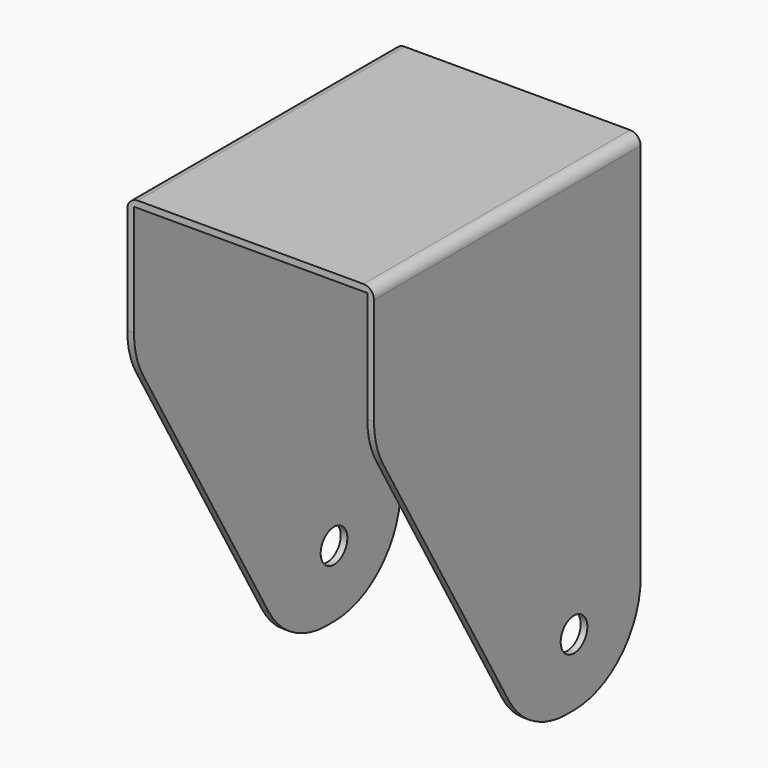
from build123d import *

# Parameters (mm, degrees)
F1_DEPTH = 100
F2_SIZE2 = 115.4700538379
F2_SIZE  = 200
F3_R     = 50
F4_R     = 10
F5_DEPTH = 100


with BuildPart() as f1:
    # F0 (on Front) → F1 (new body, symmetric)
    with BuildSketch(Plane.XZ):
        with BuildLine():
            Line((-72, 277.65), (-72, 0))
            Line((-72, 0), (-68, 0))
            Line((-68, 0), (-68, 280))
            Line((-68, 280), (72, 280))
            Line((72, 280), (72, 0))
            Line((72, 0), (76, 0))
            Line((76, 0), (76, 277.65))
            ThreePointArc((76, 277.65), (74.1401280605, 282.1401280605), (69.65, 284))
            Line((69.65, 284), (-65.65, 284))
            ThreePointArc((-65.65, 284), (-70.1401280605, 282.1401280605), (-72, 277.65))
        make_face()
    extrude(amount=F1_DEPTH, both=True)

    # F2
    f2_edges = [f1.edges().sort_by_distance(p)[0] for p in [
        (74, -100, 0),
        (-70, -100, 0),
    ]]
    f2_side = f1.faces().sort_by_distance((-68.797501, -100, 138.825))[0]
    chamfer(f2_edges, length=F2_SIZE, length2=F2_SIZE2, reference=f2_side)

    # F3
    f3_edges = [f1.edges().sort_by_distance(p)[0] for p in [
        (74, -100, 200),
        (-70, -100, 200),
        (74, 15.470054, 0),
        (-70, 15.470054, 0),
        (-70, 100, 0),
        (74, 100, 0),
    ]]
    fillet(f3_edges, radius=F3_R)

    # F4 (on Right) → F5 (cut, symmetric)
    with BuildSketch(Plane.YZ):
        with Locations((50, 40)):
            Circle(F4_R)
    extrude(amount=F5_DEPTH, both=True, mode=Mode.SUBTRACT)


solid = f1.part
